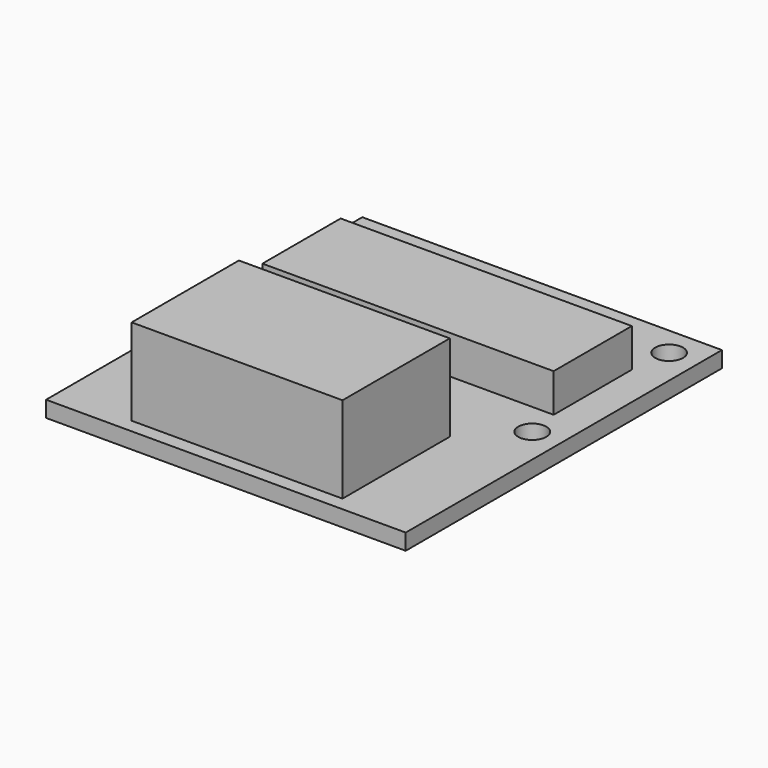
from build123d import *

# Parameters (mm, degrees)
F0_W     = 25.75
F0_H     = 28.3
F0_W_2   = 15.1
F0_H_2   = 9.6
F0_R     = 1
F0_W_3   = 20.85
F0_H_3   = 7
F1_DEPTH = 1.15
F2_DEPTH = 3.9
F3_DEPTH = 7.35


with BuildPart() as f1:
    # F0 (on Top) → F1 (new body)
    with BuildSketch(Plane.XY):
        Rectangle(F0_W, F0_H)
        with Locations((0, -8.35)):
            Rectangle(F0_W_2, F0_H_2, mode=Mode.SUBTRACT)
        with Locations((-10.775, -0.2)):
            Circle(F0_R, mode=Mode.SUBTRACT)
        with Locations((10.775, -0.2)):
            Circle(F0_R, mode=Mode.SUBTRACT)
        with Locations((0, 5.65)):
            Rectangle(F0_W_3, F0_H_3, mode=Mode.SUBTRACT)
        with Locations((-10.775, 12.05)):
            Circle(F0_R, mode=Mode.SUBTRACT)
        with Locations((10.775, 12.05)):
            Circle(F0_R, mode=Mode.SUBTRACT)
    extrude(amount=F1_DEPTH)

    # F0 (on Top) → F2 (join)
    with BuildSketch(Plane.XY):
        with Locations((0, 5.65)):
            Rectangle(F0_W_3, F0_H_3)
    extrude(amount=F2_DEPTH)

    # F0 (on Top) → F3 (join)
    with BuildSketch(Plane.XY):
        with Locations((0, -8.35)):
            Rectangle(F0_W_2, F0_H_2)
    extrude(amount=F3_DEPTH)


solid = f1.part
